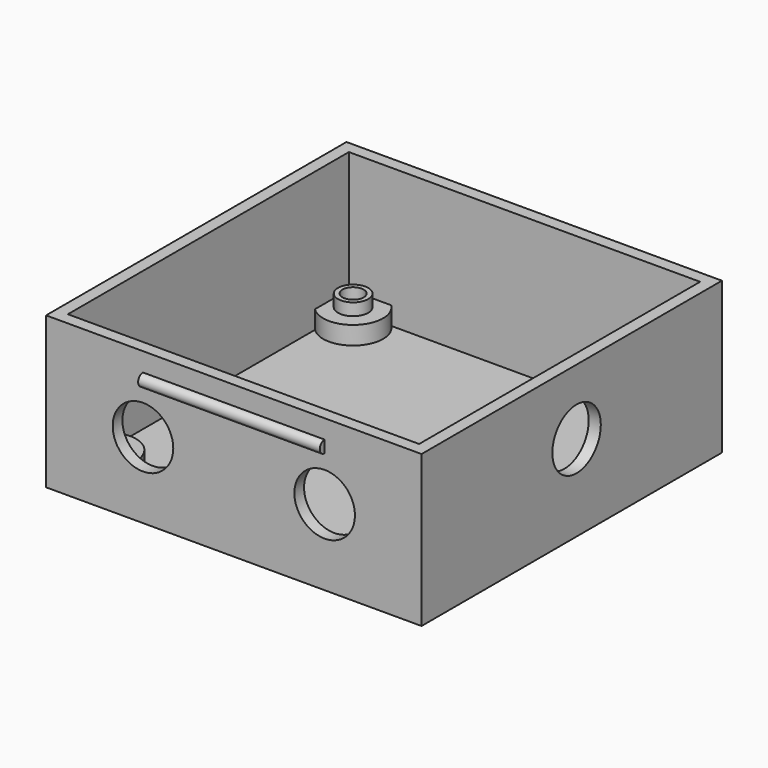
from build123d import *

# Parameters (mm, degrees)
SKETCH_W        = 62
SKETCH_H        = 62
PAD_DEPTH       = 25
SKETCH001_W     = 58
SKETCH001_H     = 58
POCKET_DEPTH    = 23
SKETCH002_R     = 4.9497474683
PAD001_DEPTH    = 3
SKETCH003_R     = 2.5
PAD002_DEPTH    = 2
SKETCH004_R     = 1.75
POCKET001_DEPTH = 7.001
POCKET002_DEPTH = 3
SKETCH006_R     = 1.5
POCKET003_DEPTH = 2.001
SKETCH007_R     = 5
POCKET004_DEPTH = 2
SKETCH008_R     = 5
POCKET005_DEPTH = 2
SKETCH009_R     = 1
PAD003_DEPTH    = 15


with BuildPart() as part:
    # Sketch → Pad (new body)
    with BuildSketch(Plane.XY):
        Rectangle(SKETCH_W, SKETCH_H)
    extrude(amount=PAD_DEPTH)

    # Sketch001 (on Face6 of Pad) → Pocket (cut)
    with BuildSketch(Plane.XY.offset(25)):
        Rectangle(SKETCH001_W, SKETCH001_H)
    extrude(amount=-POCKET_DEPTH, mode=Mode.SUBTRACT)

    # Sketch002 (on Face11 of Pocket) → Pad001 (join)
    with BuildSketch(Plane.XY.offset(2)):
        with Locations((-25.5, 25.5)):
            Circle(SKETCH002_R)
        with Locations((25.5, 25.5)):
            Circle(SKETCH002_R)
        with Locations((25.5, -25.5)):
            Circle(SKETCH002_R)
        with Locations((-25.5, -25.5)):
            Circle(SKETCH002_R)
    extrude(amount=PAD001_DEPTH)

    # Sketch003 (on Face15 of Pad001) → Pad002 (join)
    with BuildSketch(Plane.XY.offset(5)):
        with Locations((-25.5, 25.5)):
            Circle(SKETCH003_R)
        with Locations((25.5, 25.5)):
            Circle(SKETCH003_R)
        with Locations((25.5, -25.5)):
            Circle(SKETCH003_R)
        with Locations((-25.5, -25.5)):
            Circle(SKETCH003_R)
    extrude(amount=PAD002_DEPTH)

    # Sketch004 (on Face27 of Pad002) → Pocket001 (cut, through all)
    with BuildSketch(Plane.XY.offset(7)):
        with Locations((-25.5, 25.5)):
            Circle(SKETCH004_R)
        with Locations((25.5, 25.5)):
            Circle(SKETCH004_R)
        with Locations((25.5, -25.5)):
            Circle(SKETCH004_R)
        with Locations((-25.5, -25.5)):
            Circle(SKETCH004_R)
    extrude(amount=-POCKET001_DEPTH, mode=Mode.SUBTRACT)

    # Sketch005 (on Face4 of Pocket001) → Pocket002 (cut)
    with BuildSketch(Plane(origin=(0, 0, 0), x_dir=(1, 0, 0), z_dir=(0, 0, -1))):
        Polygon((-22.8, 23.9411542732), (-22.8, 27.0588457268), (-25.5, 28.6176914536), (-28.2, 27.0588457268), (-28.2, 23.9411542732), (-25.5, 22.3823085464), align=None)
        Polygon((22.8, 23.9411542732), (25.5, 22.3823085464), (28.2, 23.9411542732), (28.2, 27.0588457268), (25.5, 28.6176914536), (22.8, 27.0588457268), align=None)
        Polygon((-22.8, -27.0588457268), (-22.8, -23.9411542732), (-25.5, -22.3823085464), (-28.2, -23.9411542732), (-28.2, -27.0588457268), (-25.5, -28.6176914536), align=None)
        Polygon((25.5, -28.6176914536), (28.2, -27.0588457268), (28.2, -23.9411542732), (25.5, -22.3823085464), (22.8, -23.9411542732), (22.8, -27.0588457268), align=None)
    extrude(amount=-POCKET002_DEPTH, mode=Mode.SUBTRACT)

    # Sketch006 (on Face41 of Pocket002) → Pocket003 (cut, through all)
    with BuildSketch(Plane.XY.offset(2)):
        with Locations((-6.5, -23.5)):
            Circle(SKETCH006_R)
        with Locations((6.5, -23.5)):
            Circle(SKETCH006_R)
    extrude(amount=-POCKET003_DEPTH, mode=Mode.SUBTRACT)

    # Sketch007 (on Face6 of Pocket003) → Pocket004 (cut)
    with BuildSketch(Plane.XZ.offset(31)):
        with Locations((-15, 12.5)):
            Circle(SKETCH007_R)
        with Locations((15, 12.5)):
            Circle(SKETCH007_R)
    extrude(amount=-POCKET004_DEPTH, mode=Mode.SUBTRACT)

    # Sketch008 (on Face3 of Pocket004) → Pocket005 (cut)
    with BuildSketch(Plane.YZ.offset(31)):
        with Locations((1, 14.2)):
            Circle(SKETCH008_R)
    extrude(amount=-POCKET005_DEPTH, mode=Mode.SUBTRACT)

    # Sketch009 (on DatumPlane) → Pad003 (join, symmetric)
    with BuildSketch(Plane(origin=(0, -31, 25), x_dir=(0, 1, 0), z_dir=(1, 0, 0))):
        with Locations((0, -4.1)):
            Circle(SKETCH009_R)
        with Locations((62, -4.1)):
            Circle(SKETCH009_R)
    extrude(amount=PAD003_DEPTH, both=True)


solid = part.part
